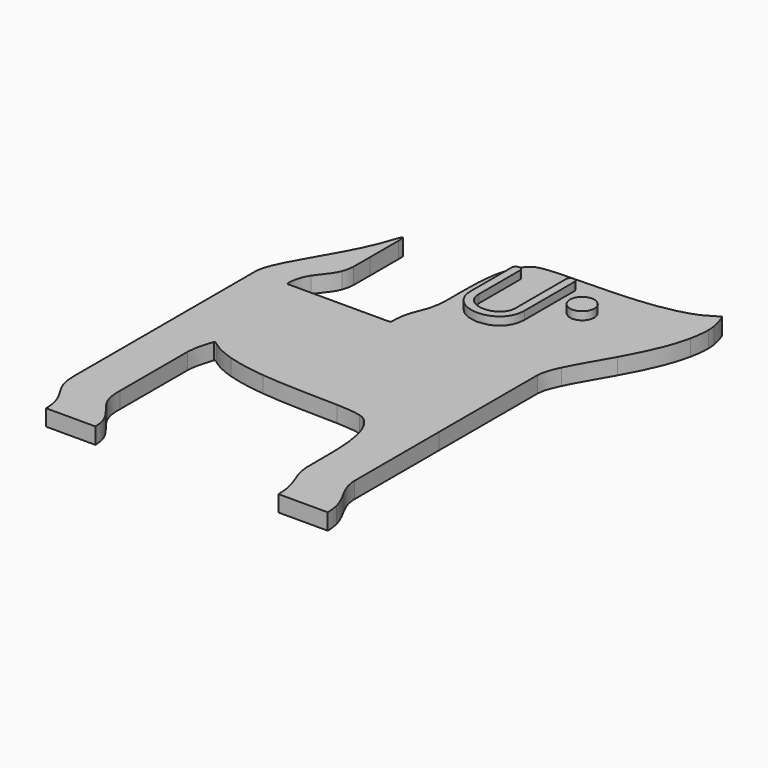
from build123d import *

# Parameters (mm, degrees)
EXTRUDE_DEPTH    = 3
EXTRUDE001_DEPTH = 3
EXTRUDE002_DEPTH = 2


with BuildPart() as extrude_body:
    # ellipse22 → Extrude (new body)
    with BuildSketch(Plane(origin=(9.166837, 19.906706, 0), x_dir=(0, 1, 0), z_dir=(0, 0, 1))):
        with BuildLine():
            add(Edge.make_bspline(
                [(1.5, 0), (1.5, 1.5), (0, 1.5)],
                knots=[1.570796, 1.570796, 1.570796, 3.141593, 3.141593, 3.141593], degree=2, weights=[1, 0.707107, 1]))
            add(Edge.make_bspline(
                [(0, 1.5), (-1.5, 1.5), (-1.5, 0)],
                knots=[3.141593, 3.141593, 3.141593, 4.712389, 4.712389, 4.712389], degree=2, weights=[1, 0.707107, 1]))
            add(Edge.make_bspline(
                [(-1.5, 0), (-1.5, -1.5), (0, -1.5)],
                knots=[4.712389, 4.712389, 4.712389, 6.283185, 6.283185, 6.283185], degree=2, weights=[1, 0.707107, 1]))
            add(Edge.make_bspline(
                [(0, -1.5), (1.5, -1.5), (1.5, 0)],
                knots=[0, 0, 0, 1.570796, 1.570796, 1.570796], degree=2, weights=[1, 0.707107, 1]))
        make_face()
    extrude(amount=EXTRUDE_DEPTH)


with BuildPart() as extrude001:
    # path22 → Extrude001 (new body)
    with BuildSketch(Plane(origin=(2.57227, 17.05504, 0), x_dir=(0, 1, 0), z_dir=(0, 0, 1))):
        with BuildLine():
            add(Edge.make_bspline(
                [(6.461041, -2.624646), (6.461041, -2.124646), (5.961041, -2.124646)],
                knots=[1.570796, 1.570796, 1.570796, 3.141593, 3.141593, 3.141593], degree=2, weights=[1, 0.707107, 1]))
            Line((5.961041, -2.124646), (-1.722553, -2.124646))
            add(Edge.make_bspline(
                [(-1.722553, -2.124646), (-2.462416, -2.124646), (-2.953561, -1.851898), (-3.302631, -1.43324)],
                knots=[0, 0, 0, 0, 1, 1, 1, 1], degree=3))
            add(Edge.make_bspline(
                [(-3.302631, -1.43324), (-3.6517, -1.014581), (-3.841693, -0.427533), (-3.841693, 0.16637)],
                knots=[0, 0, 0, 0, 1, 1, 1, 1], degree=3))
            add(Edge.make_bspline(
                [(-3.841693, 0.16637), (-3.841693, 0.760272), (-3.6517, 1.34732), (-3.302631, 1.765979)],
                knots=[0, 0, 0, 0, 1, 1, 1, 1], degree=3))
            add(Edge.make_bspline(
                [(-3.302631, 1.765979), (-2.953561, 2.184637), (-2.462416, 2.459338), (-1.722553, 2.459338)],
                knots=[0, 0, 0, 0, 1, 1, 1, 1], degree=3))
            Line((-1.722553, 2.459338), (4.564557, 2.459338))
            add(Edge.make_bspline(
                [(4.564557, 2.459338), (5.064557, 2.459338), (5.064557, 2.959338)],
                knots=[0, 0, 0, 1.570796, 1.570796, 1.570796], degree=2, weights=[1, 0.707107, 1]))
            add(Edge.make_bspline(
                [(5.064557, 2.959338), (5.064557, 3.459338), (4.564557, 3.459338)],
                knots=[1.570796, 1.570796, 1.570796, 3.141593, 3.141593, 3.141593], degree=2, weights=[1, 0.707107, 1]))
            Line((4.564557, 3.459338), (-1.722553, 3.459338))
            add(Edge.make_bspline(
                [(-1.722553, 3.459338), (-2.72894, 3.459338), (-3.546153, 3.035133), (-4.070209, 2.406604)],
                knots=[0, 0, 0, 0, 1, 1, 1, 1], degree=3))
            add(Edge.make_bspline(
                [(-4.070209, 2.406604), (-4.594265, 1.778075), (-4.841693, 0.968717), (-4.841693, 0.16637)],
                knots=[0, 0, 0, 0, 1, 1, 1, 1], degree=3))
            add(Edge.make_bspline(
                [(-4.841693, 0.16637), (-4.841693, -0.635978), (-4.594265, -1.445336), (-4.070209, -2.073865)],
                knots=[0, 0, 0, 0, 1, 1, 1, 1], degree=3))
            add(Edge.make_bspline(
                [(-4.070209, -2.073865), (-3.546153, -2.702394), (-2.72894, -3.124646), (-1.722553, -3.124646)],
                knots=[0, 0, 0, 0, 1, 1, 1, 1], degree=3))
            Line((-1.722553, -3.124646), (5.961041, -3.124646))
            add(Edge.make_bspline(
                [(5.961041, -3.124646), (6.461041, -3.124646), (6.461041, -2.624646)],
                knots=[0, 0, 0, 1.570796, 1.570796, 1.570796], degree=2, weights=[1, 0.707107, 1]))
        make_face()
    extrude(amount=EXTRUDE001_DEPTH)


with BuildPart() as extrude002:
    # path21 → Extrude002 (new body)
    with BuildSketch(Plane(origin=(-0.084631, 1.977421, 0), x_dir=(0, 1, 0), z_dir=(0, 0, 1))):
        with BuildLine():
            add(Edge.make_bspline(
                [(24.77118, -18.435158), (24.432756, -17.659812), (24.188336, -16.839797), (23.989876, -16.021395)],
                knots=[0, 0, 0, 0, 1, 1, 1, 1], degree=3))
            add(Edge.make_bspline(
                [(23.989876, -16.021395), (23.413763, -13.550757), (23.252414, -11.007638), (23.158795, -8.479622)],
                knots=[0, 0, 0, 0, 1, 1, 1, 1], degree=3))
            add(Edge.make_bspline(
                [(23.158795, -8.479622), (23.081955, -6.398389), (23.095295, -4.314465), (22.990631, -2.234207)],
                knots=[0, 0, 0, 0, 1, 1, 1, 1], degree=3))
            add(Edge.make_bspline(
                [(22.990631, -2.234207), (22.934391, -1.432825), (22.896151, -0.602422), (22.647787, 0.173055)],
                knots=[0, 0, 0, 0, 1, 1, 1, 1], degree=3))
            add(Edge.make_bspline(
                [(22.647787, 0.173055), (22.488204, 0.656124), (22.088154, 1.011458), (21.688823, 1.30292)],
                knots=[0, 0, 0, 0, 1, 1, 1, 1], degree=3))
            add(Edge.make_bspline(
                [(21.688823, 1.30292), (20.737401, 1.954005), (19.585897, 2.217997), (18.462825, 2.390379)],
                knots=[0, 0, 0, 0, 1, 1, 1, 1], degree=3))
            add(Edge.make_bspline(
                [(18.462825, 2.390379), (16.241769, 2.712048), (13.991853, 2.59057), (11.75274, 2.603684)],
                knots=[0, 0, 0, 0, 1, 1, 1, 1], degree=3))
            add(Edge.make_bspline(
                [(11.75274, 2.603684), (10.775113, 2.621314), (9.79867, 2.799133), (8.891179, 3.167848)],
                knots=[0, 0, 0, 0, 1, 1, 1, 1], degree=3))
            add(Edge.make_bspline(
                [(8.891179, 3.167848), (8.129946, 3.473956), (7.37339, 3.782689), (6.556878, 3.89353)],
                knots=[0, 0, 0, 0, 1, 1, 1, 1], degree=3))
            add(Edge.make_bspline(
                [(6.556878, 3.89353), (6.0673, 3.96951), (5.585823, 3.993608), (5.087897, 3.995871)],
                knots=[0, 0, 0, 0, 1, 1, 1, 1], degree=3))
            add(Edge.make_bspline(
                [(5.087897, 3.995871), (4.962098, 4.067131), (4.978185, 4.196705), (4.983209, 4.321731)],
                knots=[0, 0, 0, 0, 1, 1, 1, 1], degree=3))
            Line((4.983209, 4.321731), (4.983209, 16.668137))
            add(Edge.make_bspline(
                [(4.983209, 16.668137), (5.049559, 16.778491), (5.157986, 16.786486), (5.274678, 16.771244)],
                knots=[0, 0, 0, 0, 1, 1, 1, 1], degree=3))
            add(Edge.make_bspline(
                [(5.274678, 16.771244), (6.153317, 16.755294), (7.03021, 16.505395), (7.762381, 16.013864)],
                knots=[0, 0, 0, 0, 1, 1, 1, 1], degree=3))
            add(Edge.make_bspline(
                [(7.762381, 16.013864), (8.630431, 15.446507), (9.356216, 14.647221), (10.345636, 14.277993)],
                knots=[0, 0, 0, 0, 1, 1, 1, 1], degree=3))
            add(Edge.make_bspline(
                [(10.345636, 14.277993), (10.804059, 14.100481), (11.266997, 14.016847), (11.763678, 13.98884)],
                knots=[0, 0, 0, 0, 1, 1, 1, 1], degree=3))
            add(Edge.make_bspline(
                [(11.763678, 13.98884), (12.589453, 13.97215), (13.440187, 13.98594), (14.275397, 13.98144)],
                knots=[0, 0, 0, 0, 1, 1, 1, 1], degree=3))
            Line((14.275397, 13.98144), (18.663678, 13.98144))
            add(Edge.make_bspline(
                [(18.663678, 13.98144), (19.768247, 13.98144), (19.778648, 14.138585), (18.724738, 14.467131)],
                knots=[0, 0, 0, 0, 1, 1, 1, 1], degree=3))
            add(Edge.make_bspline(
                [(18.724738, 14.467131), (16.973958, 15.01292), (15.30189, 15.811025), (13.686952, 16.673968)],
                knots=[0, 0, 0, 0, 1, 1, 1, 1], degree=3))
            add(Edge.make_bspline(
                [(13.686952, 16.673968), (11.805229, 17.672179), (10.002037, 18.812848), (8.103477, 19.779751)],
                knots=[0, 0, 0, 0, 1, 1, 1, 1], degree=3))
            add(Edge.make_bspline(
                [(8.103477, 19.779751), (7.300659, 20.176542), (6.455766, 20.560885), (5.588284, 20.709174)],
                knots=[0, 0, 0, 0, 1, 1, 1, 1], degree=3))
            add(Edge.make_bspline(
                [(5.588284, 20.709174), (5.037928, 20.787684), (4.479784, 20.736114), (3.925941, 20.750974)],
                knots=[0, 0, 0, 0, 1, 1, 1, 1], degree=3))
            add(Edge.make_bspline(
                [(3.925941, 20.750974), (-5.059546, 20.749574), (-14.045075, 20.753774), (-23.030535, 20.748874)],
                knots=[0, 0, 0, 0, 1, 1, 1, 1], degree=3))
            add(Edge.make_bspline(
                [(-23.030535, 20.748874), (-23.935307, 20.738974), (-24.859561, 20.52977), (-25.658965, 20.082283)],
                knots=[0, 0, 0, 0, 1, 1, 1, 1], degree=3))
            add(Edge.make_bspline(
                [(-25.658965, 20.082283), (-26.446921, 19.648412), (-27.194687, 19.109211), (-28.077125, 18.879117)],
                knots=[0, 0, 0, 0, 1, 1, 1, 1], degree=3))
            add(Edge.make_bspline(
                [(-28.077125, 18.879117), (-28.613835, 18.726641), (-29.173153, 18.664265), (-29.730075, 18.657641)],
                knots=[0, 0, 0, 0, 1, 1, 1, 1], degree=3))
            Line((-29.730075, 18.657641), (-29.730075, 12.586938))
            add(Edge.make_bspline(
                [(-29.730075, 12.586938), (-29.008011, 12.594338), (-28.265391, 12.751286), (-27.628685, 13.103223)],
                knots=[0, 0, 0, 0, 1, 1, 1, 1], degree=3))
            add(Edge.make_bspline(
                [(-27.628685, 13.103223), (-26.626125, 13.644005), (-25.870253, 14.5624), (-24.807845, 15.004567)],
                knots=[0, 0, 0, 0, 1, 1, 1, 1], degree=3))
            add(Edge.make_bspline(
                [(-24.807845, 15.004567), (-24.075473, 15.329201), (-23.263067, 15.399395), (-22.470779, 15.377563)],
                knots=[0, 0, 0, 0, 1, 1, 1, 1], degree=3))
            add(Edge.make_bspline(
                [(-22.470779, 15.377563), (-18.989155, 15.375463), (-15.507457, 15.381863), (-12.025882, 15.374363)],
                knots=[0, 0, 0, 0, 1, 1, 1, 1], degree=3))
            add(Edge.make_bspline(
                [(-12.025882, 15.374363), (-10.932355, 15.347483), (-9.879769, 15.006847), (-8.847653, 14.674455)],
                knots=[0, 0, 0, 0, 1, 1, 1, 1], degree=3))
            add(Edge.make_bspline(
                [(-8.847653, 14.674455), (-8.784933, 14.556889), (-8.805473, 14.45706), (-8.908553, 14.374046)],
                knots=[0, 0, 0, 0, 1, 1, 1, 1], degree=3))
            add(Edge.make_bspline(
                [(-8.908553, 14.374046), (-9.621073, 13.48879), (-10.080279, 12.417937), (-10.415781, 11.35804)],
                knots=[0, 0, 0, 0, 1, 1, 1, 1], degree=3))
            add(Edge.make_bspline(
                [(-10.415781, 11.35804), (-10.888986, 9.837363), (-11.138305, 8.242638), (-11.30291, 6.659308)],
                knots=[0, 0, 0, 0, 1, 1, 1, 1], degree=3))
            add(Edge.make_bspline(
                [(-11.30291, 6.659308), (-11.625928, 3.533518), (-11.583541, 0.384309), (-11.687472, -2.755643)],
                knots=[0, 0, 0, 0, 1, 1, 1, 1], degree=3))
            add(Edge.make_bspline(
                [(-11.687472, -2.755643), (-11.734752, -3.756548), (-11.762742, -4.76931), (-12.000479, -5.747308)],
                knots=[0, 0, 0, 0, 1, 1, 1, 1], degree=3))
            add(Edge.make_bspline(
                [(-12.000479, -5.747308), (-12.084219, -6.112292), (-12.257957, -6.454601), (-12.523266, -6.721139)],
                knots=[0, 0, 0, 0, 1, 1, 1, 1], degree=3))
            add(Edge.make_bspline(
                [(-12.523266, -6.721139), (-13.244558, -7.498401), (-14.273624, -7.891711), (-15.281948, -8.139205)],
                knots=[0, 0, 0, 0, 1, 1, 1, 1], degree=3))
            add(Edge.make_bspline(
                [(-15.281948, -8.139205), (-17.050742, -8.554813), (-18.879844, -8.586526), (-20.6882, -8.586175)],
                knots=[0, 0, 0, 0, 1, 1, 1, 1], degree=3))
            add(Edge.make_bspline(
                [(-20.6882, -8.586175), (-21.66594, -8.592875), (-22.64495, -8.539805), (-23.621758, -8.596265)],
                knots=[0, 0, 0, 0, 1, 1, 1, 1], degree=3))
            add(Edge.make_bspline(
                [(-23.621758, -8.596265), (-24.245704, -8.637145), (-24.890348, -8.75205), (-25.484948, -8.953073)],
                knots=[0, 0, 0, 0, 1, 1, 1, 1], degree=3))
            add(Edge.make_bspline(
                [(-25.484948, -8.953073), (-26.301482, -9.23093), (-27.106126, -9.635074), (-27.971592, -9.796894)],
                knots=[0, 0, 0, 0, 1, 1, 1, 1], degree=3))
            add(Edge.make_bspline(
                [(-27.971592, -9.796894), (-28.549752, -9.915171), (-29.140662, -9.960456), (-29.730076, -9.964993)],
                knots=[0, 0, 0, 0, 1, 1, 1, 1], degree=3))
            Line((-29.730076, -9.964993), (-29.730076, -16.036868))
            add(Edge.make_bspline(
                [(-29.730076, -16.036868), (-29.195872, -16.031068), (-28.691102, -15.973238), (-28.160936, -15.848196)],
                knots=[0, 0, 0, 0, 1, 1, 1, 1], degree=3))
            add(Edge.make_bspline(
                [(-28.160936, -15.848196), (-27.248108, -15.636844), (-26.429738, -15.16679), (-25.614438, -14.723582)],
                knots=[0, 0, 0, 0, 1, 1, 1, 1], degree=3))
            add(Edge.make_bspline(
                [(-25.614438, -14.723582), (-24.82343, -14.28168), (-23.944218, -13.964024), (-23.0302, -13.946654)],
                knots=[0, 0, 0, 0, 1, 1, 1, 1], degree=3))
            add(Edge.make_bspline(
                [(-23.0302, -13.946654), (-18.677132, -13.939354), (-14.323908, -13.945654), (-9.970779, -13.943554)],
                knots=[0, 0, 0, 0, 1, 1, 1, 1], degree=3))
            add(Edge.make_bspline(
                [(-9.970779, -13.943554), (-4.923148, -13.945154), (0.124583, -13.940254), (5.172152, -13.945954)],
                knots=[0, 0, 0, 0, 1, 1, 1, 1], degree=3))
            add(Edge.make_bspline(
                [(5.172152, -13.945954), (6.112935, -13.987004), (6.994444, -14.370484), (7.83684, -14.761064)],
                knots=[0, 0, 0, 0, 1, 1, 1, 1], degree=3))
            add(Edge.make_bspline(
                [(7.83684, -14.761064), (9.589286, -15.610872), (11.240602, -16.64921), (12.946025, -17.58655)],
                knots=[0, 0, 0, 0, 1, 1, 1, 1], degree=3))
            add(Edge.make_bspline(
                [(12.946025, -17.58655), (15.291462, -18.885156), (17.72585, -20.090712), (20.360469, -20.649122)],
                knots=[0, 0, 0, 0, 1, 1, 1, 1], degree=3))
            add(Edge.make_bspline(
                [(20.360469, -20.649122), (21.165243, -20.813256), (21.985484, -20.92784), (22.816018, -20.9232)],
                knots=[0, 0, 0, 0, 1, 1, 1, 1], degree=3))
            add(Edge.make_bspline(
                [(22.816018, -20.9232), (23.117702, -20.9211), (23.419343, -20.89185), (23.719826, -20.84384)],
                knots=[0, 0, 0, 0, 1, 1, 1, 1], degree=3))
            add(Edge.make_bspline(
                [(23.719826, -20.84384), (24.809499, -20.669728), (25.859092, -20.243257), (25.769924, -20.162261)],
                knots=[0, 0, 0, 0, 1, 1, 1, 1], degree=3))
            Line((25.769924, -20.162261), (24.77118, -18.435158))
        make_face()
    extrude(amount=EXTRUDE002_DEPTH)


solid = Compound([extrude_body.part, extrude001.part, extrude002.part])
